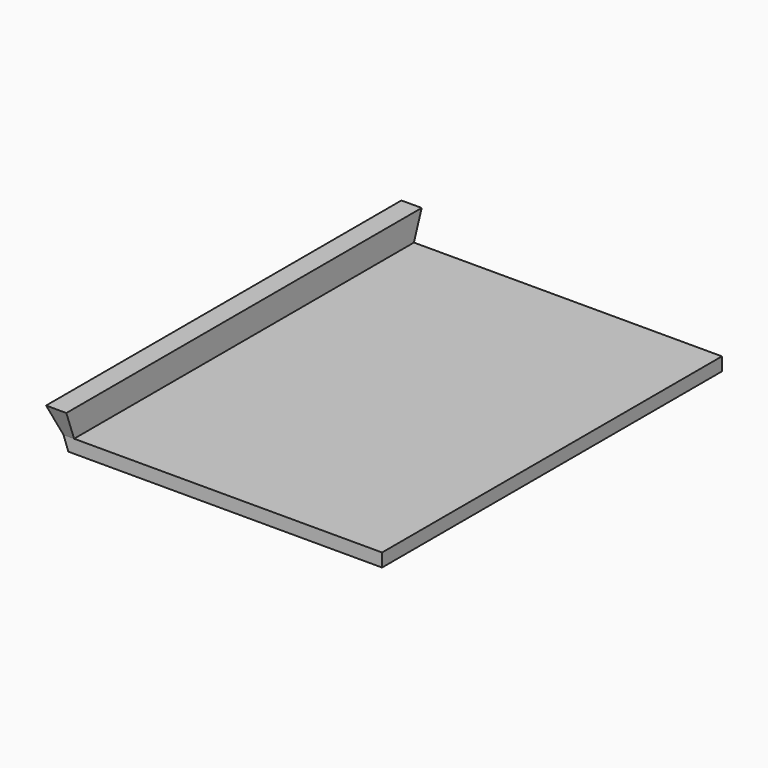
from build123d import *

# Parameters (mm, degrees)
F0_W     = 60
F0_H     = 80
F1_DEPTH = 2.5
F2_W     = 4
F2_H     = 80
F3_DEPTH = 5
F3_TAPER = -20
F4_W     = 3.8198511713
F4_H     = 83.6397023427
F5_DEPTH = 5
F6_W     = 82.729776757
F6_H     = 28.9270184836
F7_DEPTH = 25


with BuildPart() as f1:
    # F0 (on Top) → F1 (new body)
    with BuildSketch(Plane.XY):
        with Locations((7.6121210307, 0.2416865528)):
            Rectangle(F0_W, F0_H)
    extrude(amount=F1_DEPTH)

    # F2 (on face) → F3 (join)
    with BuildSketch(Plane.XY.offset(2.5)):
        with Locations((-20.3878789693, 0.2416865528)):
            Rectangle(F2_W, F2_H)
    extrude(amount=F3_DEPTH, taper=F3_TAPER)

    # F4 (on face) → F5 (cut)
    with BuildSketch(Plane.XY.offset(7.5)):
        with Locations((-18.4779533836, 0.2416865528)):
            Rectangle(F4_W, F4_H)
    extrude(amount=-F5_DEPTH, mode=Mode.SUBTRACT)

    # F6 (on face) → F7 (cut)
    with BuildSketch(Plane(origin=(-18.9655101114, 0, -6.9028811582), x_dir=(0, -1, 0), z_dir=(-0.9396926208, 0, -0.3420201433))):
        with Locations((-0.6966493456, 0.8637167464)):
            Rectangle(F6_W, F6_H)
    extrude(amount=F7_DEPTH, mode=Mode.SUBTRACT)


solid = f1.part
